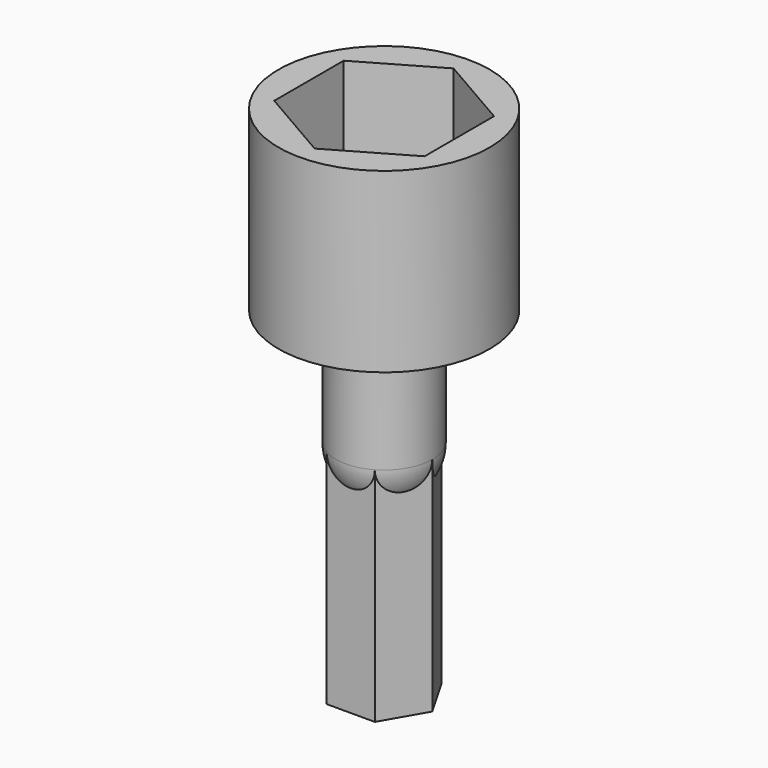
from build123d import *

# Parameters (mm, degrees)
F0_R     = 7.9375
F1_DEPTH = 13.335
F3_DEPTH = 8.636
F5_DEPTH = 25.4


with BuildPart() as f1:
    # F0 (on Top) → F1 (new body)
    with BuildSketch(Plane.XY):
        Circle(F0_R)
    extrude(amount=F1_DEPTH)

    # F2 (on face) → F3 (cut)
    with BuildSketch(Plane.XY.offset(13.335)):
        Polygon((5.6515, -3.262895), (5.6515, 3.262895), (0, 6.52579), (-5.6515, 3.262895), (-5.6515, -3.262895), (0, -6.52579), align=None)
        Polygon((5.6515, -3.262895), (5.6515, 3.262895), (0, 6.52579), (-5.6515, 3.262895), (-5.6515, -3.262895), (0, -6.52579), align=None)
    extrude(amount=-F3_DEPTH, mode=Mode.SUBTRACT)

    # F4 (on face) → F5 (join)
    with BuildSketch(Plane(origin=(0, 0, 0), x_dir=(1, 0, 0), z_dir=(0, 0, -1))):
        Polygon((-1.81109, -3.1369), (1.81109, -3.1369), (3.62218, 0), (1.81109, 3.1369), (-1.81109, 3.1369), (-3.62218, 0), align=None)
    extrude(amount=F5_DEPTH)

    # F6 (on Front) → F7 (revolve)
    with BuildSketch(Plane.XZ):
        with BuildLine():
            Line((0, 0), (-3.62218, 0))
            Line((-3.62218, 0), (-3.62218, -8.7122))
            ThreePointArc((-3.62218, -8.7122), (-2.561268, -11.273468), (0, -12.33438))
            Line((0, -12.33438), (0, 0))
        make_face()
    revolve(axis=Axis((0, 0, -6.16719), (0, 0, -1)))


solid = f1.part
